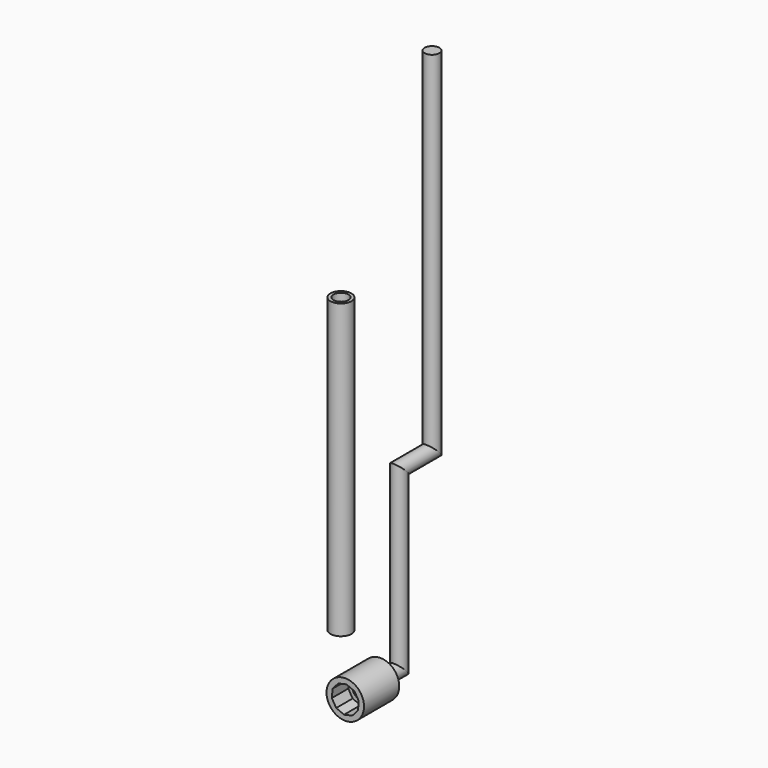
from build123d import *

# Parameters (mm, degrees)
F0_W      = 37.5
F0_H      = 16
F3_DEPTH  = 37.5
F5_DEPTH  = 20
F6_R      = 8
F7_DEPTH  = 30
F8_R      = 8
F9_DEPTH  = 10
F11_DEPTH = 12
F12_R     = 6.3
F13_DEPTH = 10
F16_R     = 9
F16_R_2   = 6.45
F17_DEPTH = 250


with BuildPart() as f1:
    # F0 (on Right) → F1 (revolve)
    with BuildSketch(Plane.YZ):
        with Locations((-18.75, 8)):
            Rectangle(F0_W, F0_H)
    revolve(axis=Axis((0, -18.75, 0), (0, -1, 0)))

    # F2 (on Front) → F3 (cut)
    with BuildSketch(Plane.XZ):
        Polygon((6.045373429, -10.1062610923), (10.8311210673, -4.6227556271), (11.4797485941, 2.626485366), (7.7435023403, 8.8724982202), (1.0495013844, 11.7295183194), (-6.045373429, 10.1062610923), (-10.8311210673, 4.6227556271), (-11.4797485941, -2.626485366), (-7.7435023403, -8.8724982202), (-1.0495013844, -11.7295183194), align=None)
    extrude(amount=F3_DEPTH, mode=Mode.SUBTRACT)


with BuildPart() as f5:
    # F4 (on Front) → F5 (new body)
    with BuildSketch(Plane.XZ):
        Polygon((-6.6055527024, -11.1098621268), (6.3186464831, -11.2755075097), (12.9241991855, -0.1656453829), (6.6055527024, 11.1098621268), (-6.3186464831, 11.2755075097), (-12.9241991855, 0.1656453829), align=None)
    extrude(amount=F5_DEPTH)

    # F6 (on Front) → F7 (cut)
    with BuildSketch(Plane.XZ):
        Circle(F6_R)
    extrude(amount=F7_DEPTH, mode=Mode.SUBTRACT)

    # F8 (on Front) → F9 (join)
    with BuildSketch(Plane.XZ):
        Circle(F8_R)
    extrude(amount=F9_DEPTH)

    # F10 (on Front) → F11 (cut)
    with BuildSketch(Plane.XZ):
        Polygon((0.264718855, -8.9763535986), (8.9763535986, 0.264718855), (-0.264718855, 8.9763535986), (-8.9763535986, -0.264718855), align=None)
    extrude(amount=F11_DEPTH, mode=Mode.SUBTRACT)


with BuildPart() as f13:
    # F12 (on Front) → F13 (new body)
    with BuildSketch(Plane.XZ):
        Circle(F12_R)
    extrude(amount=F13_DEPTH)

    # F15: sweep along a path in F14
    with BuildLine(Plane.YZ) as f15_path:
        Line((0, 0), (20, 0))
        Line((20, 0), (20, 150))
        Line((20, 150), (55, 150))
        Line((55, 150), (55, 450))
    # F12 (on Front) → F15 (sweep)
    with BuildSketch(Plane.XZ):
        Circle(F12_R)
    sweep(path=f15_path.line, transition=Transition.RIGHT)


with BuildPart() as f17:
    # F16 (on Top) → F17 (new body)
    with BuildSketch(Plane.XY):
        with Locations((-64.8733526468, 38.939550519)):
            Circle(F16_R)
        with Locations((-64.8733526468, 38.939550519)):
            Circle(F16_R_2, mode=Mode.SUBTRACT)
    extrude(amount=F17_DEPTH)


solid = Compound([f1.part, f5.part, f13.part, f17.part])
